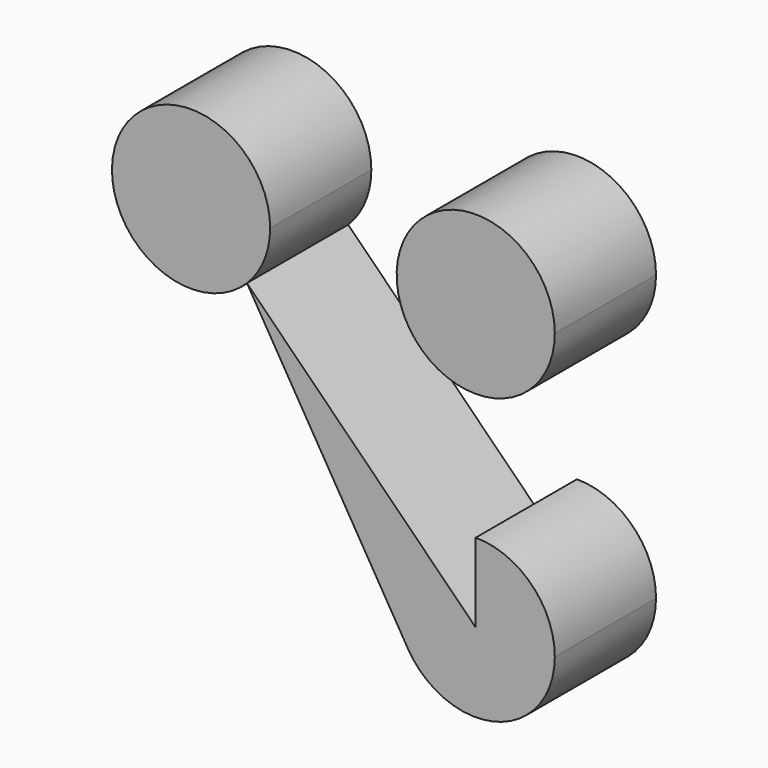
from build123d import *

# Parameters (mm, degrees)
F1_DEPTH = 20


with BuildPart() as f1:
    # F0 (on Front) → F1 (new body, symmetric)
    with BuildSketch(Plane.XZ):
        with BuildLine():
            ThreePointArc((-17.67767, 17.67767), (-24.809696, 3.078798), (-21.46239, -12.820523))
            ThreePointArc((-21.46239, -12.820523), (6.649821, -24.099375), (25, 0))
            ThreePointArc((25, 0), (17.67767, 17.67767), (0, 25))
            Line((0, 25), (0, 0))
            Line((0, 0), (-17.67767, 17.67767))
        make_face()
        with BuildLine():
            Line((-72.32233, 72.32233), (-21.46239, -12.820523))
            ThreePointArc((-21.46239, -12.820523), (-24.809696, 3.078798), (-17.67767, 17.67767))
            Line((-17.67767, 17.67767), (-72.32233, 72.32233))
        make_face()
        with BuildLine():
            ThreePointArc((-65, 90), (-113.096988, 99.567086), (-72.32233, 72.32233))
            ThreePointArc((-72.32233, 72.32233), (-66.903012, 80.432914), (-65, 90))
        make_face()
        with BuildLine():
            ThreePointArc((25, 90), (-17.67767, 107.67767), (0, 65))
            ThreePointArc((0, 65), (17.67767, 72.32233), (25, 90))
        make_face()
    extrude(amount=F1_DEPTH, both=True)


solid = f1.part
